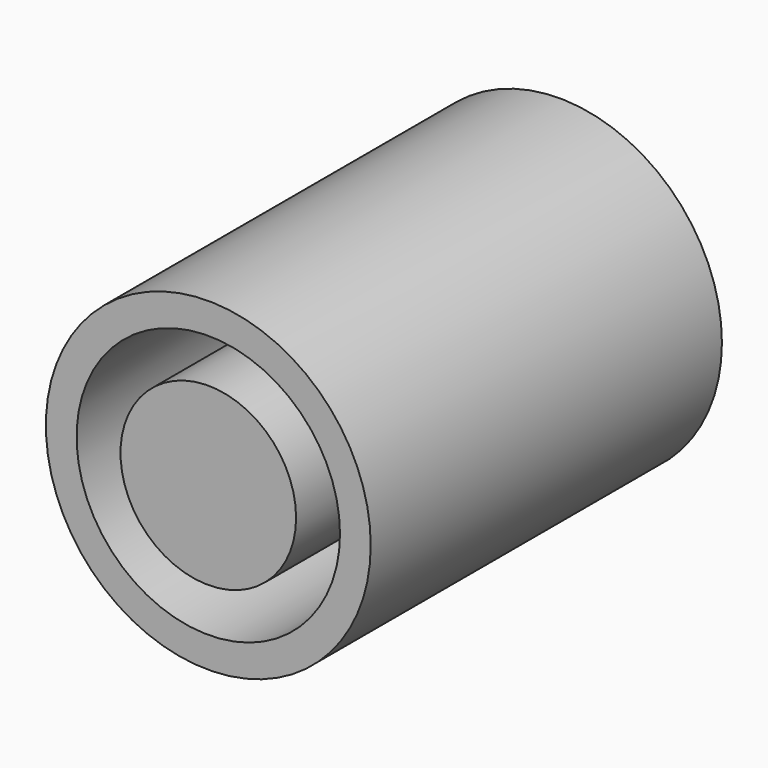
from build123d import *

# Parameters (mm, degrees)
F0_R     = 7.4
F1_DEPTH = 20
F2_R     = 6
F2_R_2   = 4
F3_DEPTH = 15


with BuildPart() as f1:
    # F0 (on Front) → F1 (new body)
    with BuildSketch(Plane.XZ):
        Circle(F0_R)
    extrude(amount=-F1_DEPTH)

    # F2 (on face) → F3 (cut)
    with BuildSketch(Plane.XZ):
        Circle(F2_R)
        Circle(F2_R_2, mode=Mode.SUBTRACT)
    extrude(amount=-F3_DEPTH, mode=Mode.SUBTRACT)


solid = f1.part
